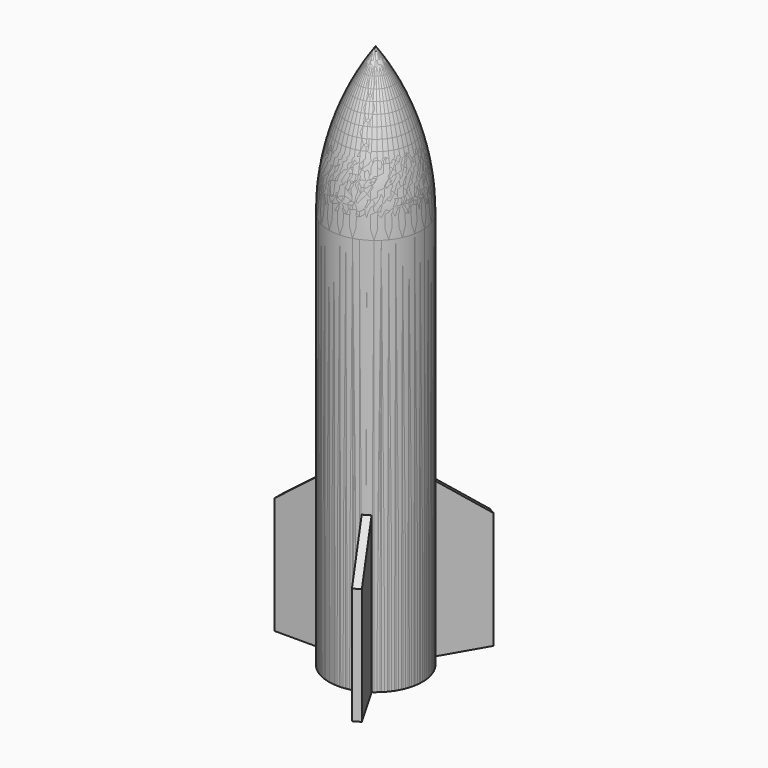
from build123d import *

# Parameters (mm, degrees)
F2_W     = 0.5
F2_H     = 40
F3_DEPTH = 1
F4_COUNT = 3
F5_DEPTH = 1.25


with BuildPart() as f1:
    # F0 (on Front) → F1 (revolve)
    with BuildSketch(Plane.XZ):
        with BuildLine():
            Line((-10, 100), (0, 100))
            Line((0, 100), (0, 102))
            Line((0, 102), (-9.841272, 102))
            ThreePointArc((-9.841272, 102), (-7.545981, 120.074925), (0, 136.658937))
            Line((0, 136.658937), (0, 139.827535))
            ThreePointArc((0, 139.827535), (-8.927632, 121.909793), (-12, 102.12827))
            Line((-12, 102.12827), (-12, 0))
            Line((-12, 0), (-10, 0))
            Line((-10, 0), (-10, 100))
        make_face()
    revolve(axis=Axis((0, 0, 51), (0, 0, 1)))

    # F2 (on Front) → F3 (join, symmetric)
    with BuildSketch(Plane.XZ):
        Polygon((-12, 40), (-25, 30), (-25, 0), (-12, 0), align=None)
        with Locations((-11.75, 20)):
            Rectangle(F2_W, F2_H)
    extrude(amount=F3_DEPTH, both=True)


with BuildPart() as f4_1:
    # F4: instance of F1
    add(f1.part.rotate(Axis((0, 0, 102.12827), (0, 0, -1)), 1 * 360 / F4_COUNT))


with BuildPart() as f4_2:
    # F4: instance of F1
    add(f1.part.rotate(Axis((0, 0, 102.12827), (0, 0, -1)), 2 * 360 / F4_COUNT))


with BuildPart() as f5:
    # F2 (on Front) → F5 (new body, symmetric)
    with BuildSketch(Plane.XZ):
        Polygon((-12, 40), (-25, 30), (-25, 0), (-12, 0), align=None)
        with Locations((-11.75, 20)):
            Rectangle(F2_W, F2_H)
    extrude(amount=F5_DEPTH, both=True)


solid = Compound([f1.part, f4_1.part, f4_2.part, f5.part])
